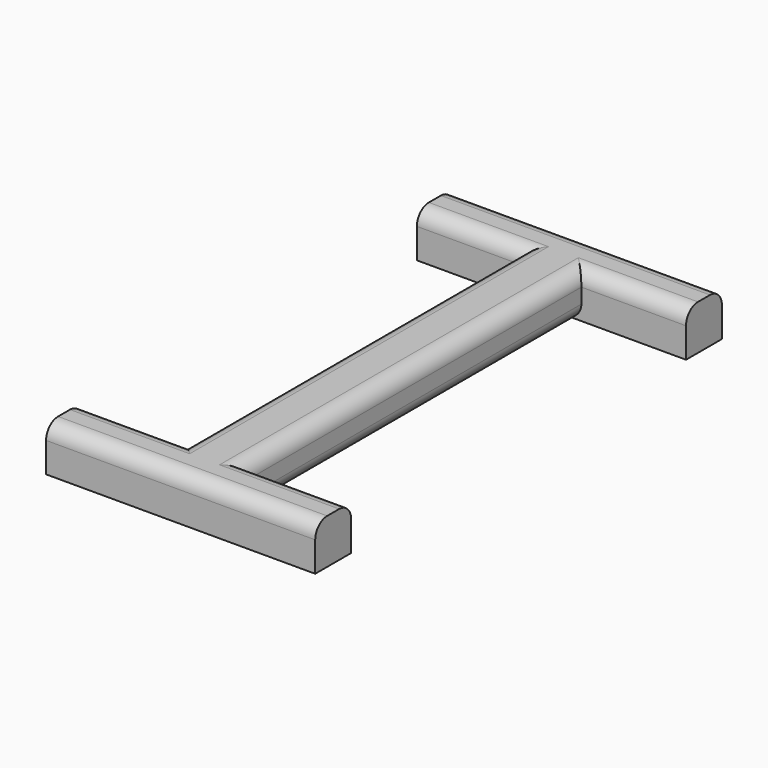
from build123d import *

# Parameters (mm, degrees)
F1_DEPTH = 15
F2_R     = 5


with BuildPart() as f1:
    # F0 (on Top) → F1 (new body)
    with BuildSketch(Plane.XY):
        Polygon((-35, 0), (0, 0), (0, -140), (-35, -140), (-35, -155), (55, -155), (55, -140), (20, -140), (20, 0), (55, 0), (55, 15), (-35, 15), align=None)
    extrude(amount=F1_DEPTH)

    # F2
    f2_edges = [f1.edges().sort_by_distance(p)[0] for p in [
        (10, 15, 15),
        (10, -155, 15),
        (0, -70, 15),
        (20, -70, 15),
        (0, -70, 0),
        (20, -70, 0),
        (-17.5, 0, 15),
        (37.5, 0, 15),
        (-17.5, -140, 15),
        (37.5, -140, 15),
    ]]
    fillet(f2_edges, radius=F2_R)


solid = f1.part
